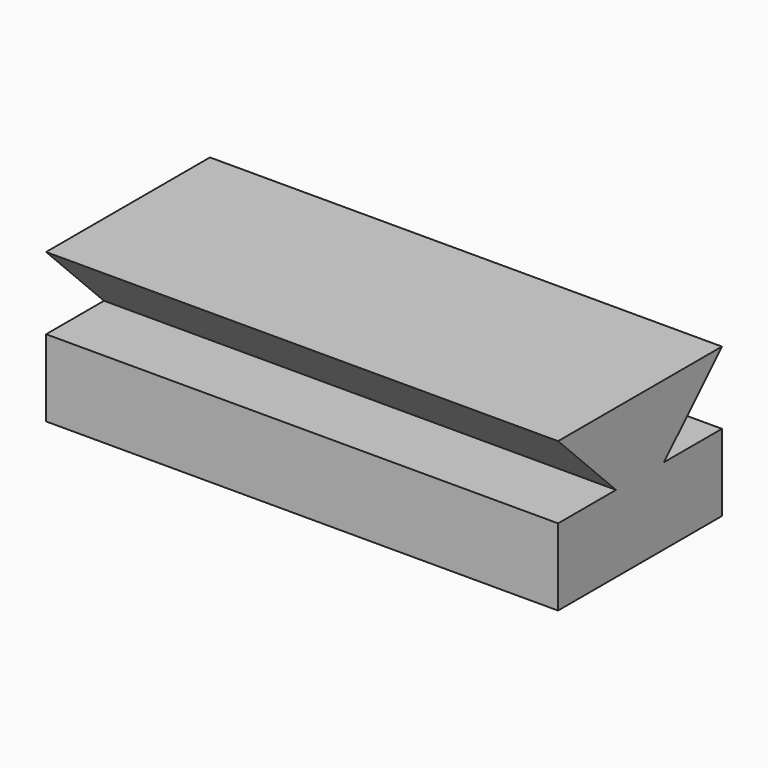
from build123d import *

# Parameters (mm, degrees)
F1_DEPTH = 200


with BuildPart() as f1:
    # F0 (on Right) → F1 (new body)
    with BuildSketch(Plane.YZ):
        Polygon((39.280485, 38.99768), (-40.719515, 38.99768), (-12.435243, 10.713409), (10.996214, 10.713409), align=None)
        Polygon((10.996214, 10.713409), (-12.435243, 10.713409), (-40.719515, 10.713409), (-40.719515, -19.286591), (39.280485, -19.286591), (39.280485, 10.713409), align=None)
    extrude(amount=F1_DEPTH)


solid = f1.part
